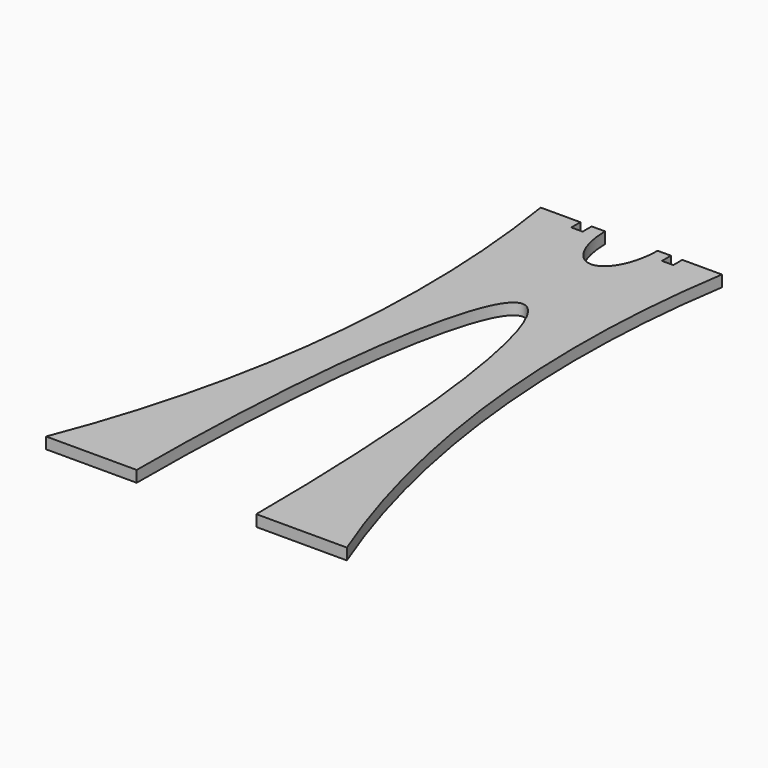
from build123d import *

# Parameters (mm, degrees)
F1_DEPTH = 12.7


with BuildPart() as f1:
    # F0 (on Top) → F1 (new body)
    with BuildSketch(Plane.XY):
        with BuildLine():
            add(Edge.make_bspline(
                [(67.0599073779, 0), (67.0599073779, 457.2), (0, 457.2)],
                knots=[4.7123889804, 4.7123889804, 4.7123889804, 6.2831853072, 6.2831853072, 6.2831853072], degree=2, weights=[1, 0.7071067812, 1]))
            Line((67.0599073779, 0), (168.6599073779, 0))
            ThreePointArc((168.6599073779, 0), (94.4201078984, 300.3216560235), (101.6, 609.6))
            Line((101.6, 609.6), (57.15, 609.6))
            Line((57.15, 609.6), (57.15, 596.9))
            Line((57.15, 596.9), (44.45, 596.9))
            Line((44.45, 596.9), (44.45, 609.6))
            Line((44.45, 609.6), (29.4321160355, 609.6))
            add(Edge.make_bspline(
                [(-29.4321160355, 609.6), (-29.4321160355, 553.1985163689), (0, 553.1985163689), (29.4321160355, 553.1985163689), (29.4321160355, 609.6)],
                knots=[4.7123889804, 4.7123889804, 4.7123889804, 6.2831853072, 6.2831853072, 7.853981634, 7.853981634, 7.853981634], degree=2, weights=[1, 0.7071067812, 1, 0.7071067812, 1]))
            Line((-29.4321160355, 609.6), (-44.45, 609.6))
            Line((-44.45, 609.6), (-44.45, 596.9))
            Line((-44.45, 596.9), (-57.15, 596.9))
            Line((-57.15, 596.9), (-57.15, 609.6))
            Line((-57.15, 609.6), (-101.6, 609.6))
            ThreePointArc((-101.6, 609.6), (-94.4201078984, 300.3216560235), (-168.6599073779, 0))
            Line((-168.6599073779, 0), (-67.0599073779, 0))
            add(Edge.make_bspline(
                [(0, 457.2), (-67.0599073779, 457.2), (-67.0599073779, 0)],
                knots=[0, 0, 0, 1.5707963268, 1.5707963268, 1.5707963268], degree=2, weights=[1, 0.7071067812, 1]))
        make_face()
    extrude(amount=F1_DEPTH)


solid = f1.part
